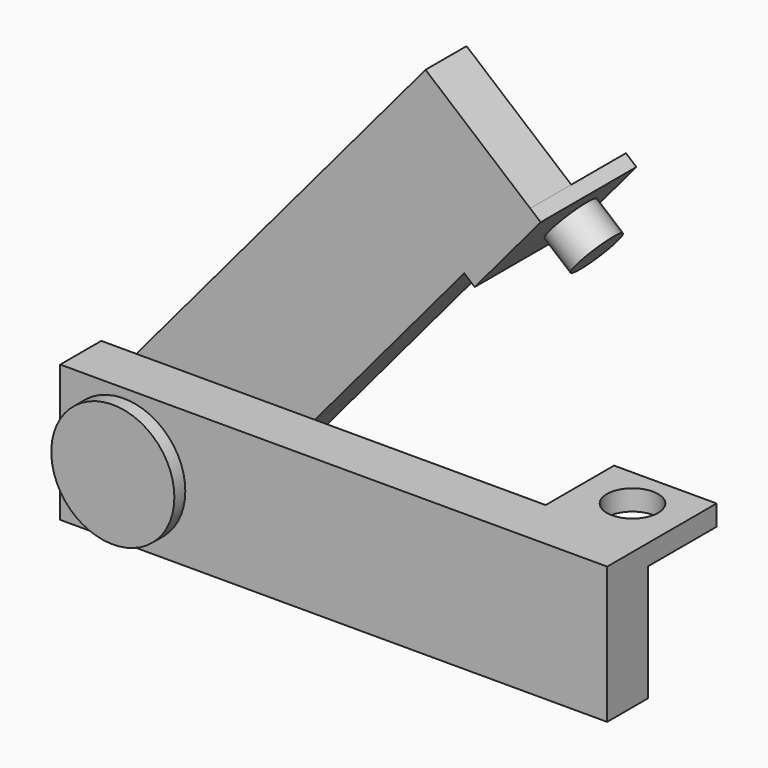
from build123d import *

# Parameters (mm, degrees)
F0_R      = 10.16
F0_R_2    = 3.4275830425
F1_DEPTH  = 9.525
F2_DEPTH  = 9.525
F3_W      = 19.05
F3_H      = 25.4
F3_R      = 4.7625
F4_DEPTH  = 3.81
F5_R      = 9.2571117711
F6_DEPTH  = 10.16
F7_R      = 12.065
F8_DEPTH  = 2.54
F9_R      = 11.43
F10_DEPTH = 2.54
F11_W     = 9.525
F11_H     = 19.05
F12_DEPTH = 2.54
F11_W_2   = 22.225
F13_DEPTH = 2.54
F14_R     = 4.7625
F15_DEPTH = 6.35


with BuildPart() as f1:
    # F0 (on Front) → F1 (new body)
    with BuildSketch(Plane.XZ):
        Polygon((-36.4917633121, -17.4924569223), (-32.4633427136, -12.7), (-42.1931648392, -12.7), align=None)
        Polygon((-11.1127317723, 12.7), (-44.2941812218, 12.7), (-50.8, 4.9602778243), (-50.8, -5.4653075214), (-42.1931648392, -12.7), (-32.4633427136, -12.7), align=None)
        with Locations((-38.3787619677, 0)):
            Circle(F0_R, mode=Mode.SUBTRACT)
        Polygon((9.4393848725, 76.6247552466), (-44.2941812218, 12.7), (-11.1127317723, 12.7), (28.882779019, 60.2811196639), align=None)
        with Locations((9.803067641, 68.4529374553)):
            Circle(F0_R_2, mode=Mode.SUBTRACT)
        with Locations((9.803067641, 68.4529374553)):
            Circle(F0_R_2)
    extrude(amount=-F1_DEPTH)

    # F11 (on face) → F12 (join)
    with BuildSketch(Plane(origin=(-12.7671757208, 0, 10.7317717179), x_dir=(0, 1, 0), z_dir=(0.7654879585, 0, -0.6434502198))):
        with Locations((4.7625, 55.2041017372)):
            Rectangle(F11_W, F11_H)
    extrude(amount=F12_DEPTH)

    # F11 (on face) → F13 (join)
    with BuildSketch(Plane(origin=(-12.7671757208, 0, 10.7317717179), x_dir=(0, 1, 0), z_dir=(0.7654879585, 0, -0.6434502198))):
        with Locations((11.1125, 55.2041017372)):
            Rectangle(F11_W_2, F11_H)
    extrude(amount=F13_DEPTH)

    # F14 (on face) → F15 (join)
    with BuildSketch(Plane(origin=(-10.8228363062, 0, 9.0974081597), x_dir=(0, 1, 0), z_dir=(0.7654879585, 0, -0.6434502198))):
        with Locations((14.605, 55.2041017372)):
            Circle(F14_R)
    extrude(amount=F15_DEPTH)


with BuildPart() as f2:
    # F0 (on Front) → F2 (new body)
    with BuildSketch(Plane.XZ):
        Polygon((50.8, 12.7), (-11.1127317723, 12.7), (-32.4633427136, -12.7), (50.8, -12.7), align=None)
        Polygon((-11.1127317723, 12.7), (-44.2941812218, 12.7), (-50.8, 4.9602778243), (-50.8, -5.4653075214), (-42.1931648392, -12.7), (-32.4633427136, -12.7), align=None)
        with Locations((-38.3787619677, 0)):
            Circle(F0_R, mode=Mode.SUBTRACT)
        Polygon((-44.2941812218, 12.7), (-50.8, 12.7), (-50.8, 4.9602778243), align=None)
        Polygon((-42.1931648392, -12.7), (-50.8, -5.4653075214), (-50.8, -12.7), align=None)
    extrude(amount=F2_DEPTH)

    # F3 (on face) → F4 (join)
    with BuildSketch(Plane.XY.offset(12.7)):
        with Locations((41.275, 3.175)):
            Rectangle(F3_W, F3_H)
        with Locations((41.275, 8.255)):
            Circle(F3_R, mode=Mode.SUBTRACT)
    extrude(amount=-F4_DEPTH)


with BuildPart() as f6:
    # F5 (on Front) → F6 (new body, symmetric)
    with BuildSketch(Plane.XZ):
        with Locations((-38.4910330176, 0)):
            Circle(F5_R)
    extrude(amount=F6_DEPTH, both=True)

    # F7 (on face) → F8 (join)
    with BuildSketch(Plane(origin=(0, 10.16, 0), x_dir=(-1, 0, 0), z_dir=(0, 1, 0))):
        with Locations((38.4910330176, 0)):
            Circle(F7_R)
    extrude(amount=F8_DEPTH)

    # F9 (on face) → F10 (join)
    with BuildSketch(Plane.XZ.offset(10.16)):
        with Locations((-38.4910330176, 0)):
            Circle(F9_R)
    extrude(amount=F10_DEPTH)


solid = Compound([f1.part, f2.part, f6.part])
